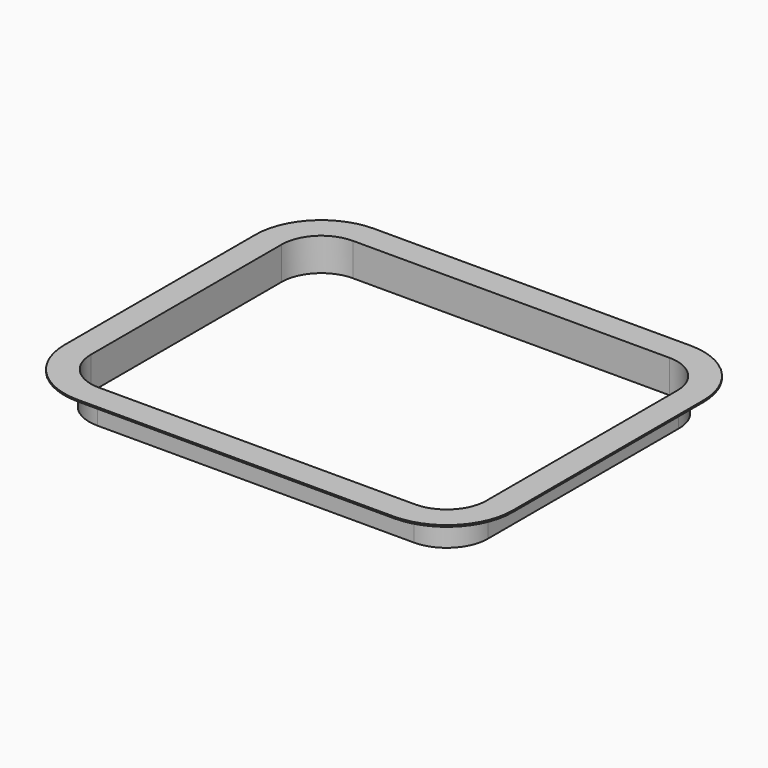
from build123d import *

# Parameters (mm, degrees)
F1_DEPTH = 1.2
F3_DEPTH = 23.8


with BuildPart() as f1:
    # F0 (on Top) → F1 (new body)
    with BuildSketch(Plane.XY):
        with BuildLine():
            ThreePointArc((170, 90.5), (155.355339, 125.855339), (120, 140.5))
            Line((120, 140.5), (-120, 140.5))
            ThreePointArc((-120, 140.5), (-155.355339, 125.855339), (-170, 90.5))
            Line((-170, 90.5), (-170, -90.5))
            ThreePointArc((-170, -90.5), (-155.355339, -125.855339), (-120, -140.5))
            Line((-120, -140.5), (120, -140.5))
            ThreePointArc((120, -140.5), (155.355339, -125.855339), (170, -90.5))
            Line((170, -90.5), (170, 90.5))
        make_face()
        with BuildLine():
            ThreePointArc((120, 120.5), (141.213203, 111.713203), (150, 90.5))
            Line((150, 90.5), (150, -90.5))
            ThreePointArc((150, -90.5), (141.213203, -111.713203), (120, -120.5))
            Line((120, -120.5), (-120, -120.5))
            ThreePointArc((-120, -120.5), (-141.213203, -111.713203), (-150, -90.5))
            Line((-150, -90.5), (-150, 90.5))
            ThreePointArc((-150, 90.5), (-141.213203, 111.713203), (-120, 120.5))
            Line((-120, 120.5), (120, 120.5))
        make_face(mode=Mode.SUBTRACT)
    extrude(amount=F1_DEPTH)

    # F2 (on face) → F3 (join)
    with BuildSketch(Plane(origin=(0, 0, 0), x_dir=(1, 0, 0), z_dir=(0, 0, -1))):
        with BuildLine():
            ThreePointArc((120, -121.7), (142.061732, -112.561732), (151.2, -90.5))
            Line((151.2, -90.5), (151.2, 90.5))
            ThreePointArc((151.2, 90.5), (142.061732, 112.561732), (120, 121.7))
            Line((120, 121.7), (-120, 121.7))
            ThreePointArc((-120, 121.7), (-142.061732, 112.561732), (-151.2, 90.5))
            Line((-151.2, 90.5), (-151.2, -90.5))
            ThreePointArc((-151.2, -90.5), (-142.061732, -112.561732), (-120, -121.7))
            Line((-120, -121.7), (120, -121.7))
        make_face()
        with BuildLine():
            ThreePointArc((150, -90.5), (141.213203, -111.713203), (120, -120.5))
            Line((120, -120.5), (-120, -120.5))
            ThreePointArc((-120, -120.5), (-141.213203, -111.713203), (-150, -90.5))
            Line((-150, -90.5), (-150, 90.5))
            ThreePointArc((-150, 90.5), (-141.213203, 111.713203), (-120, 120.5))
            Line((-120, 120.5), (120, 120.5))
            ThreePointArc((120, 120.5), (141.213203, 111.713203), (150, 90.5))
            Line((150, 90.5), (150, -90.5))
        make_face(mode=Mode.SUBTRACT)
    extrude(amount=F3_DEPTH)


solid = f1.part
